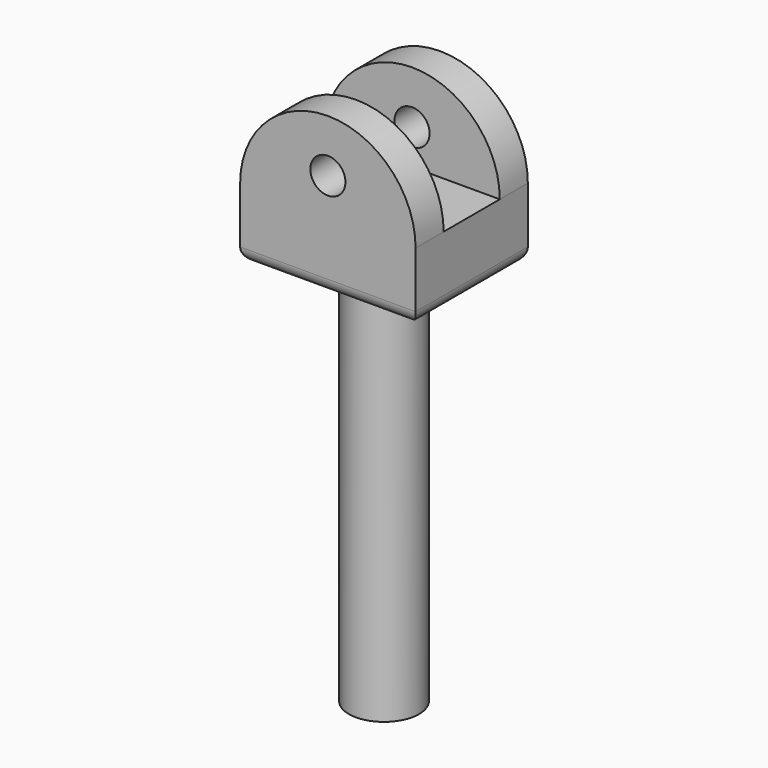
from build123d import *

# Parameters (mm, degrees)
F6_R     = 3.175
F0_DEPTH = 6.35
F6_W     = 31.75
F6_H     = 12.7
F1_DEPTH = 12.7
F3_R     = 6.35
F4_DEPTH = 76.2
F5_R     = 2.54


with BuildPart() as f0:
    # F6 (on Front) → F0 (new body)
    with BuildSketch(Plane.XZ):
        with BuildLine():
            Line((-15.875, 6.35), (15.875, 6.35))
            ThreePointArc((15.875, 6.35), (0, 22.225), (-15.875, 6.35))
        make_face()
        with Locations((0, 12.7)):
            Circle(F6_R, mode=Mode.SUBTRACT)
    extrude(amount=-F0_DEPTH)

    # F6 (on Front) → F1 (join)
    with BuildSketch(Plane.XZ):
        Rectangle(F6_W, F6_H)
    extrude(amount=-F1_DEPTH)

    # F2: F0 across face


with BuildPart() as f0_1:
    add(f0.part)
    add(f0.part.mirror(Plane(origin=(0, 12.7, 0), x_dir=(1, 0, 0), z_dir=(0, 1, 0))))

    # F3 (on Top) → F4 (join)
    with BuildSketch(Plane.XY):
        with Locations((0, 12.7)):
            Circle(F3_R)
    extrude(amount=-F4_DEPTH)

    # F5
    f5_edges = [f0_1.edges().sort_by_distance(p)[0] for p in [
        (-15.875, 12.7, -6.35),
        (0, 25.4, -6.35),
        (0, 0, -6.35),
        (15.875, 12.7, -6.35),
        (-6.35, 12.7, -6.35),
    ]]
    fillet(f5_edges, radius=F5_R)


solid = f0_1.part
